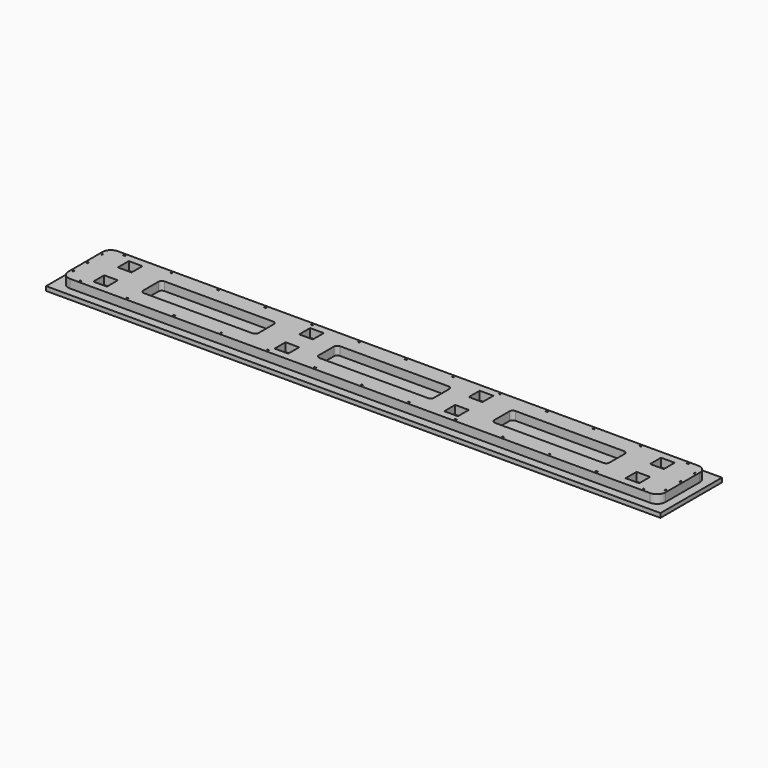
from build123d import *

# Parameters (mm, degrees)
F0_W     = 889
F0_H     = 88.9
F0_W_2   = 2.9972
F0_H_2   = 0.9906
F0_W_3   = 0.9906
F0_H_3   = 2.9972
F0_W_4   = 20.32
F0_H_4   = 20.32
F0_W_5   = 171.45
F0_H_5   = 38.1
F1_DEPTH = 12.7
F2_R     = 12.7
F3_R     = 5.08
F4_W     = 914.4
F4_H     = 114.3
F5_DEPTH = 6.35


with BuildPart() as f1:
    # F0 (on Top) → F1 (new body)
    with BuildSketch(Plane.XY):
        with Locations((406.24125, 0)):
            Rectangle(F0_W, F0_H)
        with Locations((-12.85875, -40.7797)):
            Rectangle(F0_W_2, F0_H_2, mode=Mode.SUBTRACT)
        with Locations((56.99125, -40.7797)):
            Rectangle(F0_W_2, F0_H_2, mode=Mode.SUBTRACT)
        with Locations((126.84125, -40.7797)):
            Rectangle(F0_W_2, F0_H_2, mode=Mode.SUBTRACT)
        with Locations((-34.58845, -26.9875)):
            Rectangle(F0_W_3, F0_H_3, mode=Mode.SUBTRACT)
        with Locations((10.16, -22.86)):
            Rectangle(F0_W_4, F0_H_4, mode=Mode.SUBTRACT)
        with Locations((196.69125, -40.7797)):
            Rectangle(F0_W_2, F0_H_2, mode=Mode.SUBTRACT)
        with Locations((266.54125, -40.7797)):
            Rectangle(F0_W_2, F0_H_2, mode=Mode.SUBTRACT)
        with Locations((336.39125, -40.7797)):
            Rectangle(F0_W_2, F0_H_2, mode=Mode.SUBTRACT)
        with Locations((280.035, -22.86)):
            Rectangle(F0_W_4, F0_H_4, mode=Mode.SUBTRACT)
        with Locations((406.24125, -40.7797)):
            Rectangle(F0_W_2, F0_H_2, mode=Mode.SUBTRACT)
        with Locations((476.09125, -40.7797)):
            Rectangle(F0_W_2, F0_H_2, mode=Mode.SUBTRACT)
        with Locations((545.94125, -40.7797)):
            Rectangle(F0_W_2, F0_H_2, mode=Mode.SUBTRACT)
        with Locations((615.79125, -40.7797)):
            Rectangle(F0_W_2, F0_H_2, mode=Mode.SUBTRACT)
        with Locations((532.4602, -22.86)):
            Rectangle(F0_W_4, F0_H_4, mode=Mode.SUBTRACT)
        with Locations((685.64125, -40.7797)):
            Rectangle(F0_W_2, F0_H_2, mode=Mode.SUBTRACT)
        with Locations((755.49125, -40.7797)):
            Rectangle(F0_W_2, F0_H_2, mode=Mode.SUBTRACT)
        with Locations((825.34125, -40.7797)):
            Rectangle(F0_W_2, F0_H_2, mode=Mode.SUBTRACT)
        with Locations((847.07095, -26.9875)):
            Rectangle(F0_W_3, F0_H_3, mode=Mode.SUBTRACT)
        with Locations((802.3225, -22.86)):
            Rectangle(F0_W_4, F0_H_4, mode=Mode.SUBTRACT)
        with Locations((-34.58845, 0)):
            Rectangle(F0_W_3, F0_H_3, mode=Mode.SUBTRACT)
        with Locations((145.09115, 0)):
            Rectangle(F0_W_5, F0_H_5, mode=Mode.SUBTRACT)
        with Locations((10.16, 22.86)):
            Rectangle(F0_W_4, F0_H_4, mode=Mode.SUBTRACT)
        with Locations((-34.58845, 26.9875)):
            Rectangle(F0_W_3, F0_H_3, mode=Mode.SUBTRACT)
        with Locations((-12.85875, 40.7797)):
            Rectangle(F0_W_2, F0_H_2, mode=Mode.SUBTRACT)
        with Locations((56.99125, 40.7797)):
            Rectangle(F0_W_2, F0_H_2, mode=Mode.SUBTRACT)
        with Locations((126.84125, 40.7797)):
            Rectangle(F0_W_2, F0_H_2, mode=Mode.SUBTRACT)
        with Locations((280.035, 22.86)):
            Rectangle(F0_W_4, F0_H_4, mode=Mode.SUBTRACT)
        with Locations((196.69125, 40.7797)):
            Rectangle(F0_W_2, F0_H_2, mode=Mode.SUBTRACT)
        with Locations((266.54125, 40.7797)):
            Rectangle(F0_W_2, F0_H_2, mode=Mode.SUBTRACT)
        with Locations((336.39125, 40.7797)):
            Rectangle(F0_W_2, F0_H_2, mode=Mode.SUBTRACT)
        with Locations((406.24125, 0)):
            Rectangle(F0_W_5, F0_H_5, mode=Mode.SUBTRACT)
        with Locations((667.39135, 0)):
            Rectangle(F0_W_5, F0_H_5, mode=Mode.SUBTRACT)
        with Locations((847.07095, 0)):
            Rectangle(F0_W_3, F0_H_3, mode=Mode.SUBTRACT)
        with Locations((532.4602, 22.86)):
            Rectangle(F0_W_4, F0_H_4, mode=Mode.SUBTRACT)
        with Locations((406.24125, 40.7797)):
            Rectangle(F0_W_2, F0_H_2, mode=Mode.SUBTRACT)
        with Locations((476.09125, 40.7797)):
            Rectangle(F0_W_2, F0_H_2, mode=Mode.SUBTRACT)
        with Locations((545.94125, 40.7797)):
            Rectangle(F0_W_2, F0_H_2, mode=Mode.SUBTRACT)
        with Locations((615.79125, 40.7797)):
            Rectangle(F0_W_2, F0_H_2, mode=Mode.SUBTRACT)
        with Locations((802.3225, 22.86)):
            Rectangle(F0_W_4, F0_H_4, mode=Mode.SUBTRACT)
        with Locations((847.07095, 26.9875)):
            Rectangle(F0_W_3, F0_H_3, mode=Mode.SUBTRACT)
        with Locations((685.64125, 40.7797)):
            Rectangle(F0_W_2, F0_H_2, mode=Mode.SUBTRACT)
        with Locations((755.49125, 40.7797)):
            Rectangle(F0_W_2, F0_H_2, mode=Mode.SUBTRACT)
        with Locations((825.34125, 40.7797)):
            Rectangle(F0_W_2, F0_H_2, mode=Mode.SUBTRACT)
    extrude(amount=F1_DEPTH)

    # F2
    f2_edges = [f1.edges().sort_by_distance(p)[0] for p in [
        (850.74125, 44.45, 6.35),
        (850.74125, -44.45, 6.35),
        (-38.25875, 44.45, 6.35),
        (-38.25875, -44.45, 6.35),
    ]]
    fillet(f2_edges, radius=F2_R)

    # F3
    f3_edges = [f1.edges().sort_by_distance(p)[0] for p in [
        (59.36615, 19.05, 6.35),
        (320.51625, 19.05, 6.35),
        (581.66635, 19.05, 6.35),
        (753.11635, 19.05, 6.35),
        (491.96625, 19.05, 6.35),
        (230.81615, 19.05, 6.35),
        (230.81615, -19.05, 6.35),
        (491.96625, -19.05, 6.35),
        (753.11635, -19.05, 6.35),
        (581.66635, -19.05, 6.35),
        (320.51625, -19.05, 6.35),
        (59.36615, -19.05, 6.35),
    ]]
    fillet(f3_edges, radius=F3_R)


with BuildPart() as f5:
    # F4 (on face) → F5 (new body)
    with BuildSketch(Plane(origin=(0, 0, 0), x_dir=(1, 0, 0), z_dir=(0, 0, -1))):
        with Locations((406.24125, 0)):
            Rectangle(F4_W, F4_H)
    extrude(amount=F5_DEPTH)


solid = Compound([f1.part, f5.part])
